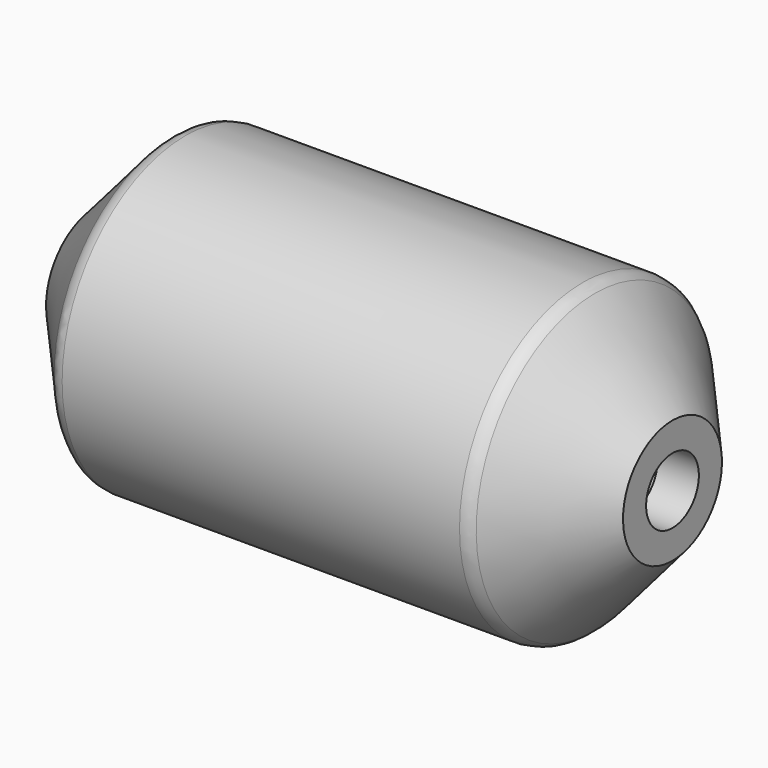
from build123d import *

# Parameters (mm, degrees)
F4_D     = 20.32
F4_DEPTH = 12.7
F4_TIP   = 6.1047438893
F3_R     = 5.08
F5_R     = 5.08


with BuildPart() as f1:
    # F0 (on Front) → F1 (revolve)
    with BuildSketch(Plane.XZ):
        Polygon((127, 0), (0, 0), (-25.4, -28.3980633142), (-25.4, -47.4480633142), (152.4, -47.4480633142), (152.4, -28.3980633142), align=None)
    revolve(axis=Axis((63.5, 0, -47.4480633142), (1, 0, 0)))

    # F4
    with Locations(Plane.YZ.offset(152.4)):
        with Locations((0, -47.4480633142)):
            Hole(F4_D / 2, depth=F4_DEPTH)
            with Locations((0, 0, -(F4_DEPTH + F4_TIP / 2))):  # 118° drill point
                Cone(0, F4_D / 2, F4_TIP, mode=Mode.SUBTRACT)

    # F3
    f3_edges = [f1.edges().sort_by_distance(p)[0] for p in [
        (127, 0, -94.896127),
    ]]
    fillet(f3_edges, radius=F3_R)

    # F5
    f5_edges = [f1.edges().sort_by_distance(p)[0] for p in [
        (0, 0, -94.896127),
    ]]
    fillet(f5_edges, radius=F5_R)


solid = f1.part
